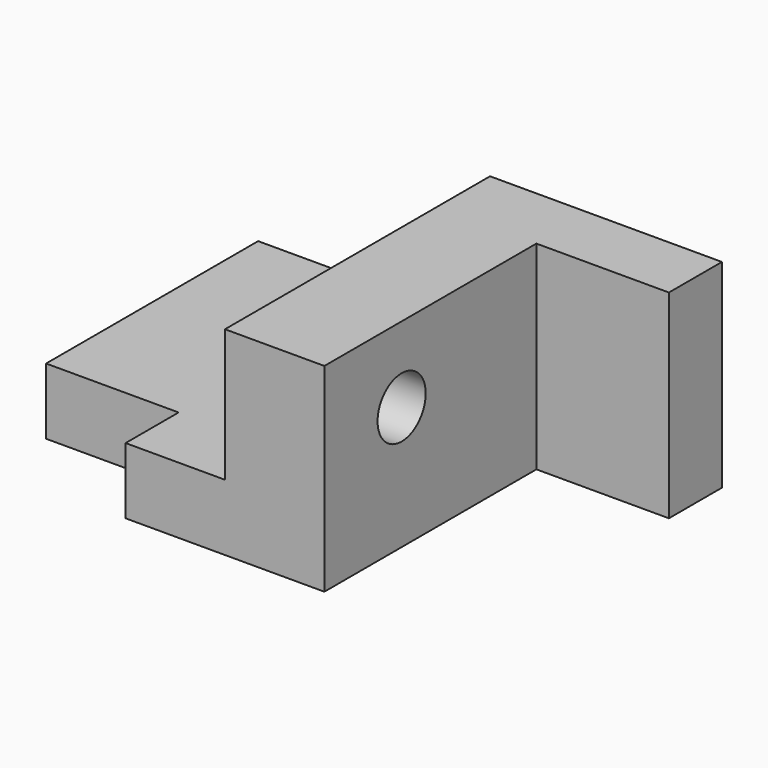
from build123d import *

# Parameters (mm, degrees)
F0_R     = 12.7
F1_DEPTH = 25.4
F2_DEPTH = 76.2
F3_R     = 11.5415853334
F4_DEPTH = 97.028


with BuildPart() as f1:
    # F0 (on Top) → F1 (new body)
    with BuildSketch(Plane.XY):
        Polygon((0, -63.5), (0, 63.5), (-88.9, 63.5), (-88.9, -38.1), (-38.1, -38.1), (-38.1, -63.5), align=None)
        with Locations((-46.3457293808, 16.616050154)):
            Circle(F0_R, mode=Mode.SUBTRACT)
    extrude(amount=F1_DEPTH)

    # F0 (on Top) → F2 (join)
    with BuildSketch(Plane.XY):
        Polygon((88.9, 38.1), (88.9, 63.5), (0, 63.5), (0, -63.5), (38.1, -63.5), (38.1, 38.1), align=None)
    extrude(amount=F2_DEPTH)

    # F3 (on Right) → F4 (cut)
    with BuildSketch(Plane.YZ):
        with Locations((-26.4720246196, 47.1727401018)):
            Circle(F3_R)
    extrude(amount=F4_DEPTH, mode=Mode.SUBTRACT)


solid = f1.part
